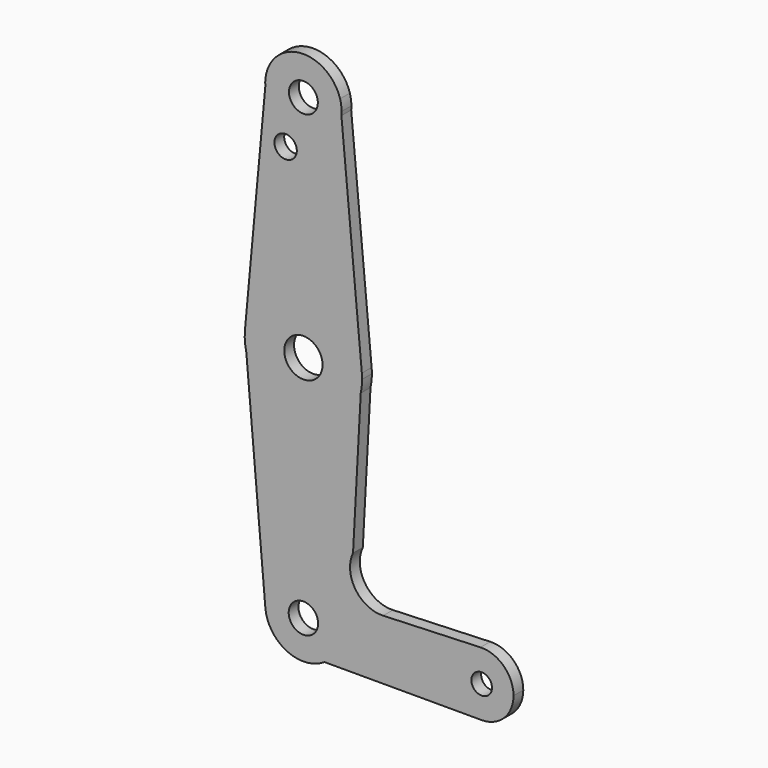
from build123d import *

# Parameters (mm, degrees)
F0_R     = 3.5976776677
F0_R_2   = 2.7917541863
F0_R_3   = 4.7763507548
F0_R_4   = 3.666508785
F0_R_5   = 2.5690908377
F1_DEPTH = 3.048


with BuildPart() as f1:
    # F0 (on Front) → F1 (new body)
    with BuildSketch(Plane.XZ):
        with BuildLine():
            ThreePointArc((-36.326030798, 65.1488291165), (-36.2914074156, 65.616629912), (-36.2798569503, 66.0855680205))
            ThreePointArc((-36.2798569503, 66.0855680205), (-36.3755057611, 67.4320304783), (-36.6605312076, 68.7514509345))
            Line((-36.6605312076, 68.7514509345), (-36.326030798, 65.1488291165))
        make_face()
        with BuildLine():
            Line((-36.4280611846, 64.411851746), (-36.6605312076, 68.7514509345))
            ThreePointArc((-36.6605312076, 68.7514509345), (-45.940911185, 75.6095962778), (-55.0216019474, 68.4891563087))
            Line((-55.0216019474, 68.4891563087), (-55.2407693467, 64.7858825787))
            ThreePointArc((-55.2407693467, 64.7858825787), (-45.9941938457, 56.5624500154), (-36.4280611846, 64.411851746))
        make_face()
        with Locations((-45.8048569503, 66.0855680205)):
            Circle(F0_R, mode=Mode.SUBTRACT)
        with BuildLine():
            Line((-36.326030798, 65.1488291165), (-36.6605312076, 68.7514509345))
            Line((-36.6605312076, 68.7514509345), (-36.4280611846, 64.411851746))
            ThreePointArc((-36.4280611846, 64.411851746), (-36.3698474967, 64.77934384), (-36.326030798, 65.1488291165))
        make_face()
        with BuildLine():
            Line((-31.2323061965, 10.288617117), (-36.326030798, 65.1488291165))
            ThreePointArc((-36.326030798, 65.1488291165), (-36.3698474967, 64.77934384), (-36.4280611846, 64.411851746))
            ThreePointArc((-36.4280611846, 64.411851746), (-45.9941938457, 56.5624500154), (-55.2407693467, 64.7858825787))
            ThreePointArc((-55.2407693467, 64.7858825787), (-55.2781693396, 65.0946203051), (-55.3054703402, 65.404414428))
            Line((-55.3054703402, 65.404414428), (-60.378510666, 10.2766849818))
            ThreePointArc((-60.378510666, 10.2766849818), (-45.8108484522, 23.5707974834), (-31.2323061965, 10.288617117))
        make_face()
        with Locations((-50.2404682338, 53.8214705884)):
            Circle(F0_R_2, mode=Mode.SUBTRACT)
        with BuildLine():
            Line((-55.3054703402, 65.404414428), (-55.0216019474, 68.4891563087))
            ThreePointArc((-55.0216019474, 68.4891563087), (-55.2897810071, 66.9584028481), (-55.3054703402, 65.404414428))
        make_face()
        with BuildLine():
            Line((-55.2407693467, 64.7858825787), (-55.0216019474, 68.4891563087))
            Line((-55.0216019474, 68.4891563087), (-55.3054703402, 65.404414428))
            ThreePointArc((-55.3054703402, 65.404414428), (-55.2781693396, 65.0946203051), (-55.2407693467, 64.7858825787))
        make_face()
        with BuildLine():
            ThreePointArc((-31.169626261, 8.9355680205), (-31.1853046428, 9.612818091), (-31.2323061965, 10.288617117))
            ThreePointArc((-31.2323061965, 10.288617117), (-45.8108484522, 23.5707974834), (-60.378510666, 10.2766849818))
            ThreePointArc((-60.378510666, 10.2766849818), (-60.4035712748, 7.9023606836), (-60.0443553018, 5.5552331217))
            ThreePointArc((-60.0443553018, 5.5552331217), (-45.6724146054, -5.6990633843), (-31.5065123141, 5.8134985156))
            ThreePointArc((-31.5065123141, 5.8134985156), (-31.2540915141, 7.3654716695), (-31.169626261, 8.9355680205))
        make_face()
        with Locations((-45.8048569503, 8.9355680205)):
            Circle(F0_R_3, mode=Mode.SUBTRACT)
        with BuildLine():
            Line((-33.4289223394, -29.9077716681), (-31.5065123141, 5.8134985156))
            ThreePointArc((-31.5065123141, 5.8134985156), (-45.6724146054, -5.6990633843), (-60.0443553018, 5.5552331217))
            Line((-60.0443553018, 5.5552331217), (-55.2940045614, -49.0400848208))
            ThreePointArc((-55.2940045614, -49.0400848208), (-46.2180723929, -38.6983992978), (-36.2798569503, -48.2144319795))
            ThreePointArc((-36.2798569503, -48.2144319795), (-37.4159338579, -52.7257061176), (-40.553157601, -56.160832356))
            Line((-40.553157601, -56.160832356), (-1.353054757, -56.1519317749))
            ThreePointArc((-1.353054757, -56.1519317749), (-9.2908723642, -48.3679428932), (-1.6600205011, -40.2828002774))
            Line((-1.6600205011, -40.2828002774), (-25.9198962818, -41.2161807108))
            ThreePointArc((-25.9198962818, -41.2161807108), (-32.8485891223, -37.6696996391), (-33.4289223394, -29.9077716681))
        make_face()
        with BuildLine():
            ThreePointArc((-36.2798569503, -48.2144319795), (-46.2180723929, -38.6983992978), (-55.2940045614, -49.0400848208))
            ThreePointArc((-55.2940045614, -49.0400848208), (-53.9890671075, -53.0872472954), (-51.0529472177, -56.1632163863))
            Line((-51.0529472177, -56.1632163863), (-40.553157601, -56.160832356))
            ThreePointArc((-40.553157601, -56.160832356), (-37.4159338579, -52.7257061176), (-36.2798569503, -48.2144319795))
        make_face()
        with Locations((-45.8048569503, -48.2144319795)):
            Circle(F0_R_4, mode=Mode.SUBTRACT)
        with BuildLine():
            Line((-40.553157601, -56.160832356), (-51.0529472177, -56.1632163863))
            ThreePointArc((-51.0529472177, -56.1632163863), (-45.8026942511, -57.739431734), (-40.553157601, -56.160832356))
        make_face()
        with BuildLine():
            ThreePointArc((6.5826430497, -48.2144319795), (4.1488540961, -42.494897823), (-1.6600205011, -40.2828002774))
            ThreePointArc((-1.6600205011, -40.2828002774), (-9.2908723642, -48.3679428932), (-1.353054757, -56.1519317749))
            ThreePointArc((-1.353054757, -56.1519317749), (4.2584402607, -53.8264548474), (6.5826430497, -48.2144319795))
        make_face()
        with Locations((-1.3548569503, -48.2144319795)):
            Circle(F0_R_5, mode=Mode.SUBTRACT)
    extrude(amount=F1_DEPTH)


solid = f1.part
